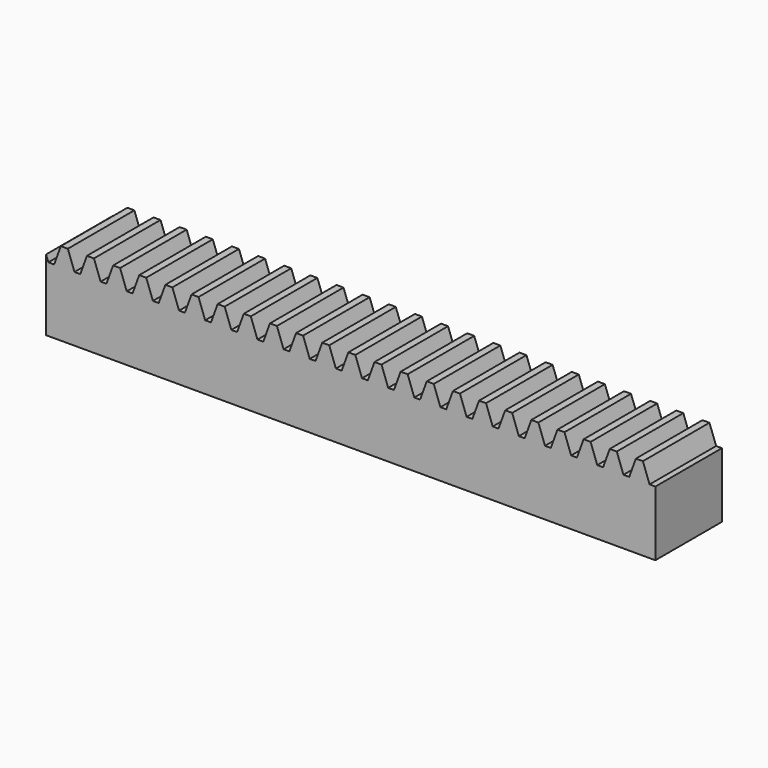
from build123d import *

# Parameters (mm, degrees)
F1_DEPTH = 25
F3_DEPTH = 26
F5_DEPTH = 25
F6_DEPTH = 15


with BuildPart() as f1:
    # F0 (on Front) → F1 (new body)
    with BuildSketch(Plane.XZ):
        Polygon((245.77381, 2.55), (245.181582, 2.55), (244.380847, 4.75), (243.537993, 4.75), (242.737258, 2.55), (242.039992, 2.55), (241.239257, 4.75), (240.396403, 4.75), (239.595668, 2.55), (238.898402, 2.55), (238.097667, 4.75), (237.254813, 4.75), (236.454078, 2.55), (235.756812, 2.55), (234.956077, 4.75), (234.113223, 4.75), (233.312488, 2.55), (232.615222, 2.55), (231.814487, 4.75), (230.971633, 4.75), (230.170898, 2.55), (229.473632, 2.55), (228.672897, 4.75), (227.830043, 4.75), (227.029308, 2.55), (226.332042, 2.55), (225.531307, 4.75), (224.688453, 4.75), (223.887718, 2.55), (223.190452, 2.55), (222.389717, 4.75), (221.546863, 4.75), (220.746128, 2.55), (220.048862, 2.55), (219.248127, 4.75), (218.405273, 4.75), (217.604538, 2.55), (216.907272, 2.55), (216.106537, 4.75), (215.263683, 4.75), (214.462948, 2.55), (213.765682, 2.55), (212.964947, 4.75), (212.122093, 4.75), (211.321358, 2.55), (210.624092, 2.55), (209.823357, 4.75), (208.980503, 4.75), (208.179768, 2.55), (207.482502, 2.55), (206.681767, 4.75), (205.838913, 4.75), (205.038178, 2.55), (204.340912, 2.55), (203.540177, 4.75), (202.697323, 4.75), (201.896588, 2.55), (201.199322, 2.55), (200.398587, 4.75), (199.555733, 4.75), (198.754998, 2.55), (198.057732, 2.55), (197.256997, 4.75), (196.414143, 4.75), (195.613408, 2.55), (194.916142, 2.55), (194.115407, 4.75), (193.272553, 4.75), (192.471818, 2.55), (191.774552, 2.55), (190.973817, 4.75), (190.130963, 4.75), (189.330228, 2.55), (188.632962, 2.55), (187.832227, 4.75), (186.989373, 4.75), (186.188638, 2.55), (185.491372, 2.55), (184.690637, 4.75), (183.847783, 4.75), (183.047048, 2.55), (182.349782, 2.55), (181.549047, 4.75), (180.706193, 4.75), (179.905458, 2.55), (179.208192, 2.55), (178.407457, 4.75), (177.564603, 4.75), (176.763868, 2.55), (176.066602, 2.55), (175.265867, 4.75), (174.423013, 4.75), (173.622278, 2.55), (172.925012, 2.55), (172.124277, 4.75), (171.281423, 4.75), (170.480688, 2.55), (169.783422, 2.55), (168.982687, 4.75), (168.139833, 4.75), (167.339098, 2.55), (166.641832, 2.55), (165.841097, 4.75), (164.998243, 4.75), (164.197508, 2.55), (163.500242, 2.55), (162.699507, 4.75), (161.856653, 4.75), (161.055918, 2.55), (160.358652, 2.55), (159.557917, 4.75), (158.715063, 4.75), (157.914328, 2.55), (157.217062, 2.55), (156.416327, 4.75), (155.573473, 4.75), (154.772738, 2.55), (154.075472, 2.55), (153.274737, 4.75), (152.431883, 4.75), (151.631148, 2.55), (150.933882, 2.55), (150.133147, 4.75), (149.290293, 4.75), (148.489558, 2.55), (147.792292, 2.55), (146.991557, 4.75), (146.148703, 4.75), (145.347968, 2.55), (144.650702, 2.55), (143.849967, 4.75), (143.007113, 4.75), (142.206378, 2.55), (141.509112, 2.55), (140.708377, 4.75), (139.865523, 4.75), (139.064788, 2.55), (138.367522, 2.55), (137.566787, 4.75), (136.723933, 4.75), (135.923198, 2.55), (135.225932, 2.55), (134.425197, 4.75), (133.582343, 4.75), (132.781608, 2.55), (132.084342, 2.55), (131.283607, 4.75), (130.440753, 4.75), (129.640018, 2.55), (128.942752, 2.55), (128.142017, 4.75), (127.299163, 4.75), (126.498428, 2.55), (125.801162, 2.55), (125.000427, 4.75), (124.157573, 4.75), (123.356838, 2.55), (122.659572, 2.55), (121.858837, 4.75), (121.015983, 4.75), (120.215248, 2.55), (119.517982, 2.55), (118.717247, 4.75), (117.874393, 4.75), (117.073658, 2.55), (116.376392, 2.55), (115.575657, 4.75), (114.732803, 4.75), (113.932068, 2.55), (113.234802, 2.55), (112.434067, 4.75), (111.591213, 4.75), (110.790478, 2.55), (110.093212, 2.55), (109.292477, 4.75), (108.449623, 4.75), (107.648888, 2.55), (106.951622, 2.55), (106.150887, 4.75), (105.308033, 4.75), (104.507298, 2.55), (103.810032, 2.55), (103.009297, 4.75), (102.166443, 4.75), (101.365708, 2.55), (100.668442, 2.55), (99.867707, 4.75), (99.024853, 4.75), (98.224118, 2.55), (97.526852, 2.55), (96.726117, 4.75), (95.883263, 4.75), (95.082528, 2.55), (94.385262, 2.55), (93.584527, 4.75), (92.741673, 4.75), (91.940938, 2.55), (91.243672, 2.55), (90.442937, 4.75), (89.600083, 4.75), (88.799348, 2.55), (88.102082, 2.55), (87.301347, 4.75), (86.458493, 4.75), (85.657758, 2.55), (84.960492, 2.55), (84.159757, 4.75), (83.316903, 4.75), (82.516168, 2.55), (81.818902, 2.55), (81.018167, 4.75), (80.175313, 4.75), (79.374578, 2.55), (78.677312, 2.55), (77.876577, 4.75), (77.033723, 4.75), (76.232988, 2.55), (75.535722, 2.55), (74.734987, 4.75), (73.892133, 4.75), (73.091398, 2.55), (72.394132, 2.55), (71.593397, 4.75), (70.750543, 4.75), (69.949808, 2.55), (69.252542, 2.55), (68.451807, 4.75), (67.608953, 4.75), (66.808218, 2.55), (66.110952, 2.55), (65.310217, 4.75), (64.467363, 4.75), (63.666628, 2.55), (62.969362, 2.55), (62.168627, 4.75), (61.325773, 4.75), (60.525038, 2.55), (59.827772, 2.55), (59.027037, 4.75), (58.184183, 4.75), (57.383448, 2.55), (56.686182, 2.55), (55.885447, 4.75), (55.042593, 4.75), (54.241858, 2.55), (53.544592, 2.55), (52.743857, 4.75), (51.901003, 4.75), (51.100268, 2.55), (50.403002, 2.55), (49.602267, 4.75), (48.759413, 4.75), (47.958678, 2.55), (47.261412, 2.55), (46.460677, 4.75), (45.617823, 4.75), (44.817088, 2.55), (44.7243452072, 2.55), (44.7243452072, -5.25), (245.77381, -5.25), align=None)
        Polygon((-50.4001379013, -5.25), (44.7243452072, -5.25), (44.7243452072, 2.55), (44.119822, 2.55), (43.319087, 4.75), (42.476233, 4.75), (41.675498, 2.55), (40.978232, 2.55), (40.177497, 4.75), (39.334643, 4.75), (38.533908, 2.55), (37.836642, 2.55), (37.035907, 4.75), (36.193053, 4.75), (35.392318, 2.55), (34.695052, 2.55), (33.894317, 4.75), (33.051463, 4.75), (32.250728, 2.55), (31.553462, 2.55), (30.752727, 4.75), (29.909873, 4.75), (29.109138, 2.55), (28.411872, 2.55), (27.611137, 4.75), (26.768283, 4.75), (25.967548, 2.55), (25.270282, 2.55), (24.469547, 4.75), (23.626693, 4.75), (22.825958, 2.55), (22.128692, 2.55), (21.327957, 4.75), (20.485103, 4.75), (19.684368, 2.55), (18.987102, 2.55), (18.186367, 4.75), (17.343513, 4.75), (16.542778, 2.55), (15.845512, 2.55), (15.044777, 4.75), (14.201923, 4.75), (13.401188, 2.55), (12.703922, 2.55), (11.903187, 4.75), (11.060333, 4.75), (10.259598, 2.55), (9.562332, 2.55), (8.761597, 4.75), (7.918743, 4.75), (7.118008, 2.55), (6.420742, 2.55), (5.620007, 4.75), (4.777153, 4.75), (3.976418, 2.55), (3.279152, 2.55), (2.478417, 4.75), (1.635563, 4.75), (0.834828, 2.55), (0.137562, 2.55), (-0.663173, 4.75), (-1.506027, 4.75), (-2.306762, 2.55), (-3.004028, 2.55), (-3.804763, 4.75), (-4.647617, 4.75), (-5.448352, 2.55), (-6.145618, 2.55), (-6.946353, 4.75), (-7.789207, 4.75), (-8.589942, 2.55), (-9.287208, 2.55), (-10.087943, 4.75), (-10.930797, 4.75), (-11.731532, 2.55), (-12.428798, 2.55), (-13.229533, 4.75), (-14.072387, 4.75), (-14.873122, 2.55), (-15.570388, 2.55), (-16.371123, 4.75), (-17.213977, 4.75), (-18.014712, 2.55), (-18.711978, 2.55), (-19.512713, 4.75), (-20.355567, 4.75), (-21.156302, 2.55), (-21.853568, 2.55), (-22.654303, 4.75), (-23.497157, 4.75), (-24.297892, 2.55), (-24.995158, 2.55), (-25.795893, 4.75), (-26.638747, 4.75), (-27.439482, 2.55), (-28.136748, 2.55), (-28.937483, 4.75), (-29.780337, 4.75), (-30.581072, 2.55), (-31.278338, 2.55), (-32.079073, 4.75), (-32.921927, 4.75), (-33.722662, 2.55), (-34.419928, 2.55), (-35.220663, 4.75), (-36.063517, 4.75), (-36.864252, 2.55), (-37.561518, 2.55), (-38.362253, 4.75), (-39.205107, 4.75), (-40.005842, 2.55), (-40.703108, 2.55), (-41.503843, 4.75), (-42.346697, 4.75), (-43.147432, 2.55), (-43.844698, 2.55), (-44.645433, 4.75), (-45.488287, 4.75), (-46.289022, 2.55), (-46.986288, 2.55), (-47.787023, 4.75), (-48.629877, 4.75), (-49.430612, 2.55), (-50.127878, 2.55), (-50.4001379013, 3.2980274783), align=None)
    extrude(amount=F1_DEPTH)

    # F2 (on face) → F3 (cut)
    with BuildSketch(Plane.XZ.offset(25)):
        Polygon((111.591213, 4.75), (110.790478, 2.55), (110.790478, -5.25), (245.77381, -5.25), (245.77381, 2.55), (245.181582, 2.55), (244.380847, 4.75), (243.537993, 4.75), (242.737258, 2.55), (242.039992, 2.55), (241.239257, 4.75), (240.396403, 4.75), (239.595668, 2.55), (238.898402, 2.55), (238.097667, 4.75), (237.254813, 4.75), (236.454078, 2.55), (235.756812, 2.55), (234.956077, 4.75), (234.113223, 4.75), (233.312488, 2.55), (232.615222, 2.55), (231.814487, 4.75), (230.971633, 4.75), (230.170898, 2.55), (229.473632, 2.55), (228.672897, 4.75), (227.830043, 4.75), (227.029308, 2.55), (226.332042, 2.55), (225.531307, 4.75), (224.688453, 4.75), (223.887718, 2.55), (223.190452, 2.55), (222.389717, 4.75), (221.546863, 4.75), (220.746128, 2.55), (220.048862, 2.55), (219.248127, 4.75), (218.405273, 4.75), (217.604538, 2.55), (216.907272, 2.55), (216.106537, 4.75), (215.263683, 4.75), (214.462948, 2.55), (213.765682, 2.55), (212.964947, 4.75), (212.122093, 4.75), (211.321358, 2.55), (210.624092, 2.55), (209.823357, 4.75), (208.980503, 4.75), (208.179768, 2.55), (207.482502, 2.55), (206.681767, 4.75), (205.838913, 4.75), (205.038178, 2.55), (204.340912, 2.55), (203.540177, 4.75), (202.697323, 4.75), (201.896588, 2.55), (201.199322, 2.55), (200.398587, 4.75), (199.555733, 4.75), (198.754998, 2.55), (198.057732, 2.55), (197.256997, 4.75), (196.414143, 4.75), (195.613408, 2.55), (194.916142, 2.55), (194.115407, 4.75), (193.272553, 4.75), (192.471818, 2.55), (191.774552, 2.55), (190.973817, 4.75), (190.130963, 4.75), (189.330228, 2.55), (188.632962, 2.55), (187.832227, 4.75), (186.989373, 4.75), (186.188638, 2.55), (185.491372, 2.55), (184.690637, 4.75), (183.847783, 4.75), (183.047048, 2.55), (182.349782, 2.55), (181.549047, 4.75), (180.706193, 4.75), (179.905458, 2.55), (179.208192, 2.55), (178.407457, 4.75), (177.564603, 4.75), (176.763868, 2.55), (176.066602, 2.55), (175.265867, 4.75), (174.423013, 4.75), (173.622278, 2.55), (172.925012, 2.55), (172.124277, 4.75), (171.281423, 4.75), (170.480688, 2.55), (169.783422, 2.55), (168.982687, 4.75), (168.139833, 4.75), (167.339098, 2.55), (166.641832, 2.55), (165.841097, 4.75), (164.998243, 4.75), (164.197508, 2.55), (163.500242, 2.55), (162.699507, 4.75), (161.856653, 4.75), (161.055918, 2.55), (160.358652, 2.55), (159.557917, 4.75), (158.715063, 4.75), (157.914328, 2.55), (157.217062, 2.55), (156.416327, 4.75), (155.573473, 4.75), (154.772738, 2.55), (154.075472, 2.55), (153.274737, 4.75), (152.431883, 4.75), (151.631148, 2.55), (150.933882, 2.55), (150.133147, 4.75), (149.290293, 4.75), (148.489558, 2.55), (147.792292, 2.55), (146.991557, 4.75), (146.148703, 4.75), (145.347968, 2.55), (144.650702, 2.55), (143.849967, 4.75), (143.007113, 4.75), (142.206378, 2.55), (141.509112, 2.55), (140.708377, 4.75), (139.865523, 4.75), (139.064788, 2.55), (138.367522, 2.55), (137.566787, 4.75), (136.723933, 4.75), (135.923198, 2.55), (135.225932, 2.55), (134.425197, 4.75), (133.582343, 4.75), (132.781608, 2.55), (132.084342, 2.55), (131.283607, 4.75), (130.440753, 4.75), (129.640018, 2.55), (128.942752, 2.55), (128.142017, 4.75), (127.299163, 4.75), (126.498428, 2.55), (125.801162, 2.55), (125.000427, 4.75), (124.157573, 4.75), (123.356838, 2.55), (122.659572, 2.55), (121.858837, 4.75), (121.015983, 4.75), (120.215248, 2.55), (119.517982, 2.55), (118.717247, 4.75), (117.874393, 4.75), (117.073658, 2.55), (116.376392, 2.55), (115.575657, 4.75), (114.732803, 4.75), (113.932068, 2.55), (113.234802, 2.55), (112.434067, 4.75), align=None)
    extrude(amount=-F3_DEPTH, mode=Mode.SUBTRACT)

    # F4 (on face) → F5 (cut)
    with BuildSketch(Plane.XZ.offset(25)):
        Polygon((23.626693, 4.75), (22.825958, 2.55), (22.825958, -5.25), (110.790478, -5.25), (110.790478, 2.55), (110.093212, 2.55), (109.292477, 4.75), (108.449623, 4.75), (107.648888, 2.55), (106.951622, 2.55), (106.150887, 4.75), (105.308033, 4.75), (104.507298, 2.55), (103.810032, 2.55), (103.009297, 4.75), (102.166443, 4.75), (101.365708, 2.55), (100.668442, 2.55), (99.867707, 4.75), (99.024853, 4.75), (98.224118, 2.55), (97.526852, 2.55), (96.726117, 4.75), (95.883263, 4.75), (95.082528, 2.55), (94.385262, 2.55), (93.584527, 4.75), (92.741673, 4.75), (91.940938, 2.55), (91.243672, 2.55), (90.442937, 4.75), (89.600083, 4.75), (88.799348, 2.55), (88.102082, 2.55), (87.301347, 4.75), (86.458493, 4.75), (85.657758, 2.55), (84.960492, 2.55), (84.159757, 4.75), (83.316903, 4.75), (82.516168, 2.55), (81.818902, 2.55), (81.018167, 4.75), (80.175313, 4.75), (79.374578, 2.55), (78.677312, 2.55), (77.876577, 4.75), (77.033723, 4.75), (76.232988, 2.55), (75.535722, 2.55), (74.734987, 4.75), (73.892133, 4.75), (73.091398, 2.55), (72.394132, 2.55), (71.593397, 4.75), (70.750543, 4.75), (69.949808, 2.55), (69.252542, 2.55), (68.451807, 4.75), (67.608953, 4.75), (66.808218, 2.55), (66.110952, 2.55), (65.310217, 4.75), (64.467363, 4.75), (63.666628, 2.55), (62.969362, 2.55), (62.168627, 4.75), (61.325773, 4.75), (60.525038, 2.55), (59.827772, 2.55), (59.027037, 4.75), (58.184183, 4.75), (57.383448, 2.55), (56.686182, 2.55), (55.885447, 4.75), (55.042593, 4.75), (54.241858, 2.55), (53.544592, 2.55), (52.743857, 4.75), (51.901003, 4.75), (51.100268, 2.55), (50.403002, 2.55), (49.602267, 4.75), (48.759413, 4.75), (47.958678, 2.55), (47.261412, 2.55), (46.460677, 4.75), (45.617823, 4.75), (44.817088, 2.55), (44.119822, 2.55), (43.319087, 4.75), (42.476233, 4.75), (41.675498, 2.55), (40.978232, 2.55), (40.177497, 4.75), (39.334643, 4.75), (38.533908, 2.55), (37.836642, 2.55), (37.035907, 4.75), (36.193053, 4.75), (35.392318, 2.55), (34.695052, 2.55), (33.894317, 4.75), (33.051463, 4.75), (32.250728, 2.55), (31.553462, 2.55), (30.752727, 4.75), (29.909873, 4.75), (29.109138, 2.55), (28.411872, 2.55), (27.611137, 4.75), (26.768283, 4.75), (25.967548, 2.55), (25.270282, 2.55), (24.469547, 4.75), align=None)
    extrude(amount=-F5_DEPTH, mode=Mode.SUBTRACT)

    # F6 (cut): a face of the model
    f6_faces = [f1.faces().sort_by_distance(p)[0] for p in [
        (-13.7754732897, -25, -0.7366515357),
    ]]
    extrude(f6_faces, amount=-F6_DEPTH, mode=Mode.SUBTRACT)


solid = f1.part
